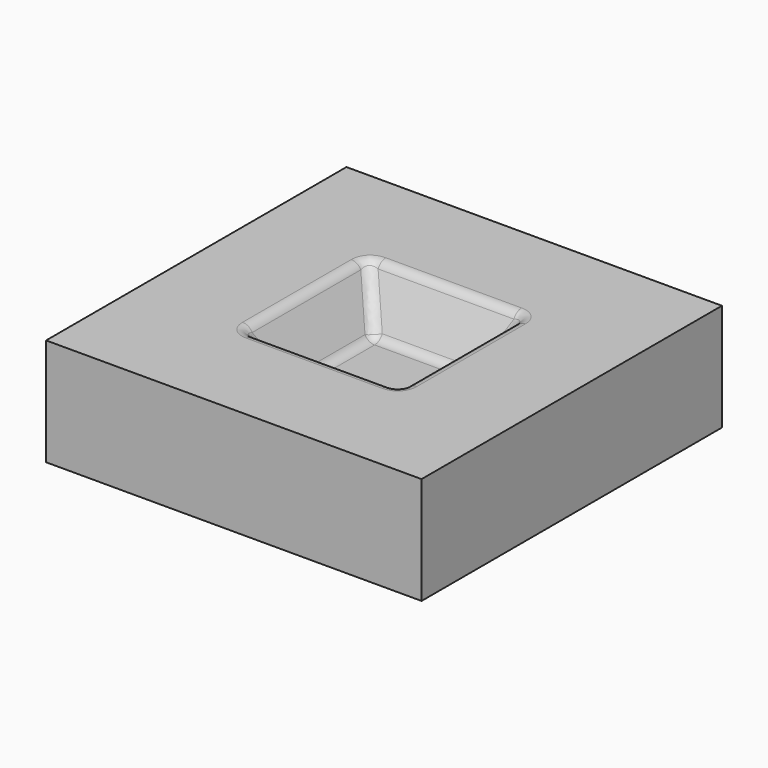
from build123d import *

# Parameters (mm, degrees)
SKETCH_W    = 70
SKETCH_H    = 70
PAD_DEPTH   = 20
SKETCH002_W = 20
SKETCH002_H = 20
SKETCH001_W = 30
SKETCH001_H = 30
FILLET_R    = 2


with BuildPart() as part:
    # Sketch → Pad (new body)
    with BuildSketch(Plane.XY):
        with Locations((-35, -35)):
            Rectangle(SKETCH_W, SKETCH_H)
    extrude(amount=PAD_DEPTH)

    # Sketch002 (on DatumPlane) → SubtractiveLoft section 0
    with BuildSketch(Plane.XY.offset(10)):
        with Locations((-35, -35)):
            Rectangle(SKETCH002_W, SKETCH002_H)
    # Sketch001 (on Face6 of Pad) → SubtractiveLoft section 1
    with BuildSketch(Plane.XY.offset(20)):
        with Locations((-35, -35)):
            Rectangle(SKETCH001_W, SKETCH001_H)
    loft(mode=Mode.SUBTRACT)

    # Fillet
    fillet_edges = [part.edges().sort_by_distance(p)[0] for p in [
        (-45, -35, 10),
        (-47.5, -47.5, 15),
        (-50, -35, 20),
        (-47.5, -22.5, 15),
        (-35, -25, 10),
        (-35, -20, 20),
        (-22.5, -22.5, 15),
        (-25, -35, 10),
        (-20, -35, 20),
        (-22.5, -47.5, 15),
        (-35, -45, 10),
        (-35, -50, 20),
    ]]
    fillet(fillet_edges, radius=FILLET_R)


solid = part.part
